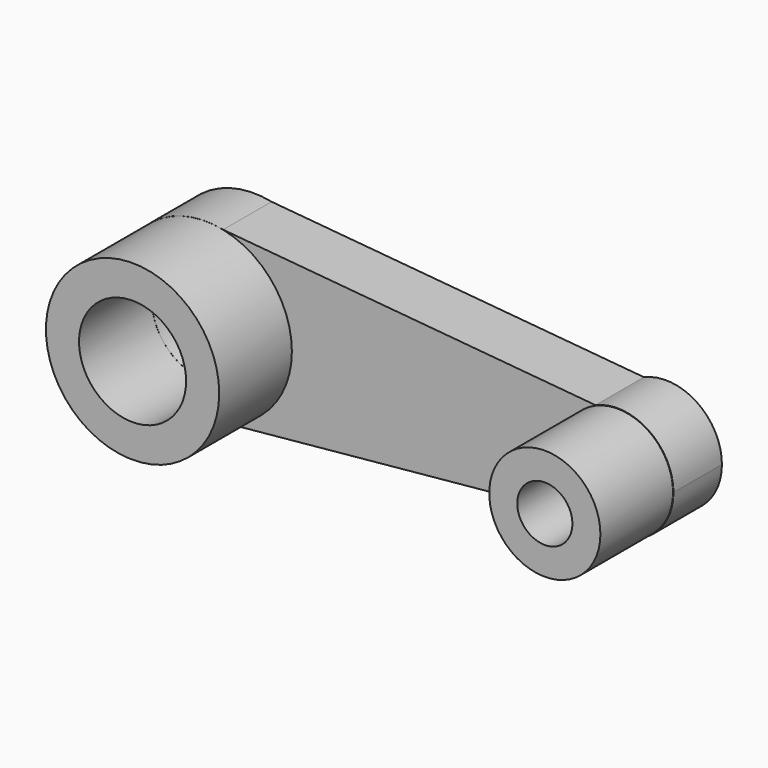
from build123d import *

# Parameters (mm, degrees)
F0_R     = 22.438006
F0_R_2   = 12.878947
F1_DEPTH = 25.4
F2_R     = 36.347793
F2_R_2   = 22.457206
F2_R_3   = 23.31419
F2_R_4   = 11.567079
F3_DEPTH = 38.1


with BuildPart() as f1:
    # F0 (on Front) → F1 (new body)
    with BuildSketch(Plane.XZ):
        with BuildLine():
            ThreePointArc((-87.466787, -15.037944), (-66.729336, -2.357344), (-58.608109, 20.553028))
            ThreePointArc((-58.608109, 20.553028), (-66.729336, 43.463401), (-87.466787, 56.144001))
            ThreePointArc((-87.466787, 56.144001), (-131.360596, 20.553028), (-87.466787, -15.037944))
        make_face()
        with Locations((-94.984353, 20.553028)):
            Circle(F0_R, mode=Mode.SUBTRACT)
        with BuildLine():
            ThreePointArc((-87.466787, 56.144001), (-66.729336, 43.463401), (-58.608109, 20.553028))
            ThreePointArc((-58.608109, 20.553028), (-66.729336, -2.357344), (-87.466787, -15.037944))
            Line((-87.466787, -15.037944), (66.906625, -0.175739))
            ThreePointArc((66.906625, -0.175739), (54.487321, 21.564975), (68.732026, 42.155899))
            Line((68.732026, 42.155899), (-87.466787, 56.144001))
        make_face()
        with BuildLine():
            ThreePointArc((101.443876, 20.553028), (90.898973, 40.153724), (68.732026, 42.155899))
            ThreePointArc((68.732026, 42.155899), (54.487321, 21.564975), (66.906625, -0.175739))
            ThreePointArc((66.906625, -0.175739), (90.04253, 0.412873), (101.443876, 20.553028))
        make_face()
        with Locations((77.954695, 20.553028)):
            Circle(F0_R_2, mode=Mode.SUBTRACT)
    extrude(amount=F1_DEPTH)

    # F2 (on face) → F3 (join)
    with BuildSketch(Plane.XZ.offset(25.4)):
        with Locations((-94.984353, 20.553028)):
            Circle(F2_R)
        with Locations((-94.984353, 20.553028)):
            Circle(F2_R_2, mode=Mode.SUBTRACT)
        with Locations((77.954695, 20.553028)):
            Circle(F2_R_3)
        with Locations((77.954695, 20.553028)):
            Circle(F2_R_4, mode=Mode.SUBTRACT)
    extrude(amount=F3_DEPTH)


solid = f1.part
